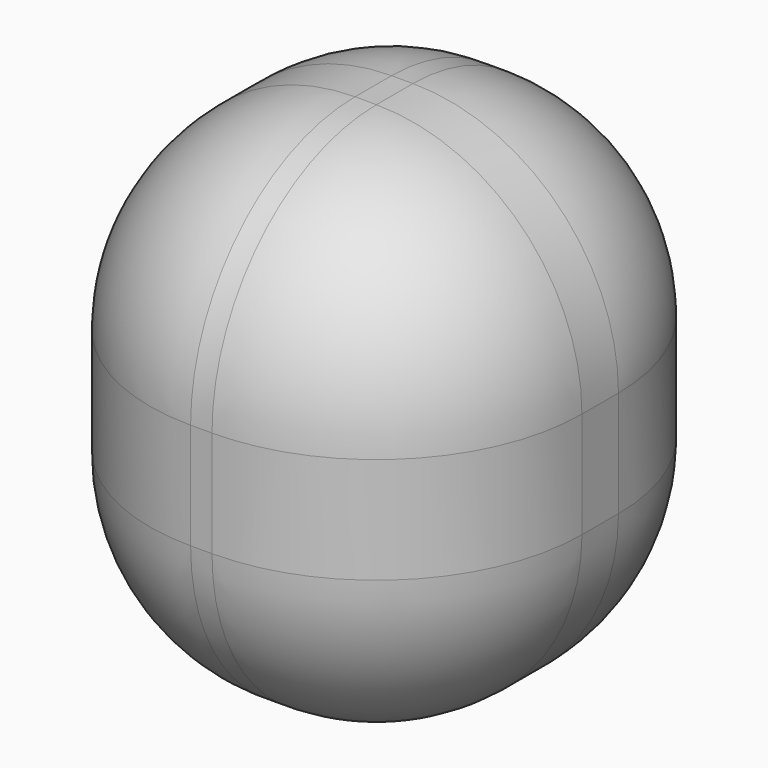
from build123d import *

# Parameters (mm, degrees)
F1_DEPTH      = 25.4
F1_DEPTH_BACK = 25.4
F2_R          = 22.86


with BuildPart() as f1:
    # F0 (on Front) → F1 (new body, two sides)
    with BuildSketch(Plane.XZ) as f1_sk:
        Polygon((24.049247, -28.766602), (24.049247, 0), (24.049247, 28.766602), (0, 28.766602), (-24.049247, 28.766602), (-24.049247, 0), (-24.049247, -28.766602), (0, -28.766602), align=None)
    extrude(amount=F1_DEPTH)
    extrude(f1_sk.sketch, amount=-F1_DEPTH_BACK)

    # F2
    f2_edges = [f1.edges().sort_by_distance(p)[0] for p in [
        (24.049247, -25.4, 0),
        (0, -25.4, 28.766602),
        (-24.049247, -25.4, 0),
        (0, -25.4, -28.766602),
        (-24.049247, 0, 28.766602),
        (0, 25.4, 28.766602),
        (24.049247, 0, 28.766602),
        (-24.049247, 0, -28.766602),
        (-24.049247, 25.4, 0),
        (24.049247, 0, -28.766602),
        (24.049247, 25.4, 0),
        (0, 25.4, -28.766602),
    ]]
    fillet(f2_edges, radius=F2_R)


solid = f1.part
